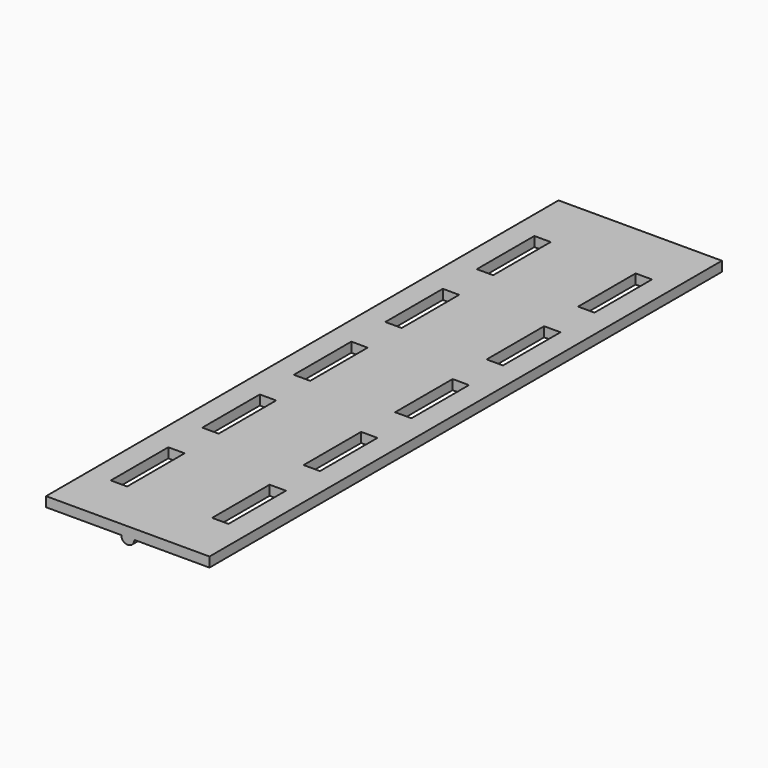
from build123d import *

# Parameters (mm, degrees)
BOX033_W          = 5
BOX033_H          = 22
BOX033_DEPTH      = 5
ARRAY004_Y_COUNT  = 5
ARRAY004_Y_PITCH  = 35
BOX032_W          = 5
BOX032_H          = 22
BOX032_DEPTH      = 5
ARRAY003_Y_COUNT  = 5
ARRAY003_Y_PITCH  = 35
CYLINDER012_R     = 2
CYLINDER012_DEPTH = 196
BOX031_W          = 50
BOX031_H          = 196
BOX031_DEPTH      = 3


with BuildPart() as array004:
    # Box033 → Box033 (new body)
    with BuildSketch(Plane.XY):
        with Locations((2.5, 11)):
            Rectangle(BOX033_W, BOX033_H)
    extrude(amount=BOX033_DEPTH)

    # Array004 Y: Array004 ×5


with BuildPart() as array004_1:
    add(array004.part)
    with Locations(*[(0, i * ARRAY004_Y_PITCH, 0) for i in range(1, ARRAY004_Y_COUNT)]):
        add(array004.part)


with BuildPart() as array004_2:
    # Array004 placement: moved
    add(array004_1.part.moved(Location((88, 318, 47))))


with BuildPart() as array003:
    # Box032 → Box032 (new body)
    with BuildSketch(Plane.XY):
        with Locations((2.5, 11)):
            Rectangle(BOX032_W, BOX032_H)
    extrude(amount=BOX032_DEPTH)

    # Array003 Y: Array003 ×5


with BuildPart() as array003_1:
    add(array003.part)
    with Locations(*[(0, i * ARRAY003_Y_PITCH, 0) for i in range(1, ARRAY003_Y_COUNT)]):
        add(array003.part)


with BuildPart() as array003_2:
    # Array003 placement: moved
    add(array003_1.part.moved(Location((57, 318, 47))))


with BuildPart() as obj1:
    # Cylinder012 → Cylinder012 (new body)
    with BuildSketch(Plane(origin=(75, 498, 47), x_dir=(1, 0, 0), z_dir=(0, -1, 0))):
        Circle(CYLINDER012_R)
    extrude(amount=CYLINDER012_DEPTH)


with BuildPart() as soporte_electronica_con_agujeros:
    # Box031 → Box031 (new body)
    with BuildSketch(Plane(origin=(50, 302, 47), x_dir=(1, 0, 0), z_dir=(0, 0, 1))):
        with Locations((25, 98)):
            Rectangle(BOX031_W, BOX031_H)
    extrude(amount=BOX031_DEPTH)

    # Fusion012: union obj1
    add(obj1.part)

    # Cut021005: cut Array003
    add(array003_2.part, mode=Mode.SUBTRACT)

    # Cut021006: cut Array004
    add(array004_2.part, mode=Mode.SUBTRACT)


solid = soporte_electronica_con_agujeros.part
